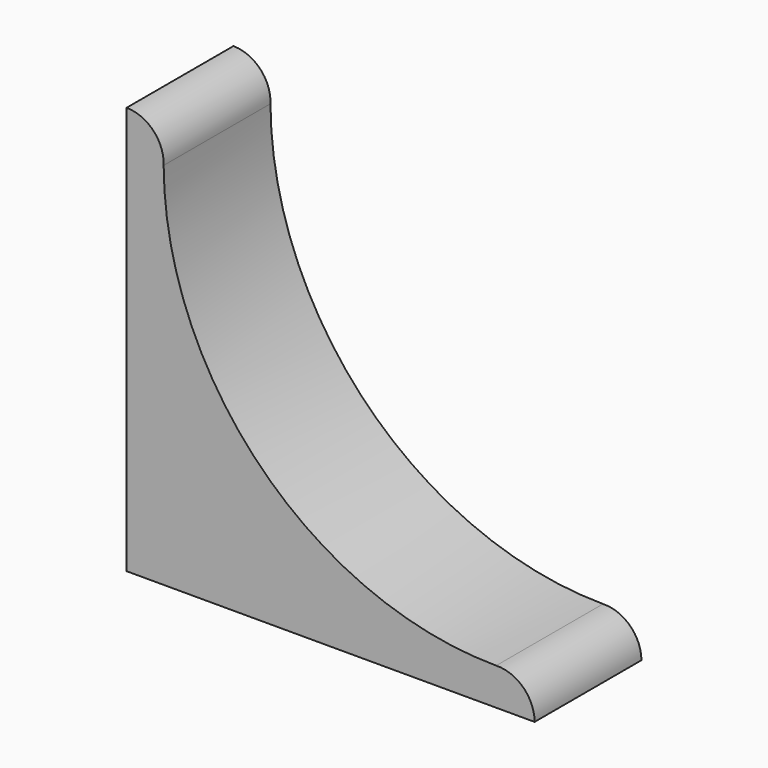
from build123d import *

# Parameters (mm, degrees)
F1_DEPTH = 18
F2_DEPTH = 18


with BuildPart() as f1:
    # F0 (on Front) → F1 (new body)
    with BuildSketch(Plane.XZ):
        with BuildLine():
            Line((0, 50), (0, 0))
            Line((0, 0), (50, 0))
            Line((50, 0), (55, 0))
            ThreePointArc((55, 0), (53.471077, 3.598836), (49.819352, 4.996736))
            ThreePointArc((49.819352, 4.996736), (18.180113, 18.152242), (4.995123, 49.779206))
            ThreePointArc((4.995123, 49.779206), (3.612753, 53.45659), (0, 55))
            Line((0, 55), (0, 50))
        make_face()
    extrude(amount=F1_DEPTH)

    # F0 (on Front) → F2 (join)
    with BuildSketch(Plane.XZ):
        with BuildLine():
            Line((0, 50), (0, 0))
            Line((0, 0), (50, 0))
            Line((50, 0), (55, 0))
            ThreePointArc((55, 0), (53.471077, 3.598836), (49.819352, 4.996736))
            ThreePointArc((49.819352, 4.996736), (18.180113, 18.152242), (4.995123, 49.779206))
            ThreePointArc((4.995123, 49.779206), (3.612753, 53.45659), (0, 55))
            Line((0, 55), (0, 50))
        make_face()
    extrude(amount=F2_DEPTH)


solid = f1.part
